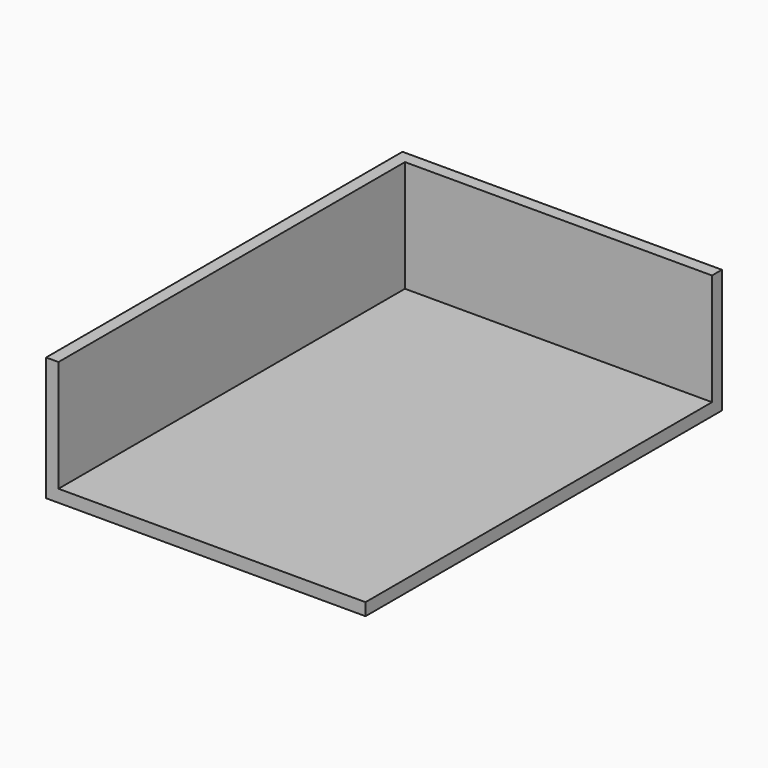
from build123d import *

# Parameters (mm, degrees)
F2_W     = 65.475806
F2_H     = 91.311798
F0_DEPTH = 25.4
F1_T     = -2.54


with BuildPart() as f0:
    # F2 (on Top) → F0 (new body)
    with BuildSketch(Plane.XY):
        with Locations((16.99128, 32.161951)):
            Rectangle(F2_W, F2_H)
    extrude(amount=F0_DEPTH)

    # F1
    f1_openings = [f0.faces().sort_by_distance(p)[0] for p in [
        (49.729183, 32.161951, 12.7),
        (16.99128, -13.493948, 12.7),
        (16.99128, 32.161951, 25.4),
    ]]
    offset(amount=F1_T, openings=f1_openings)


solid = f0.part
